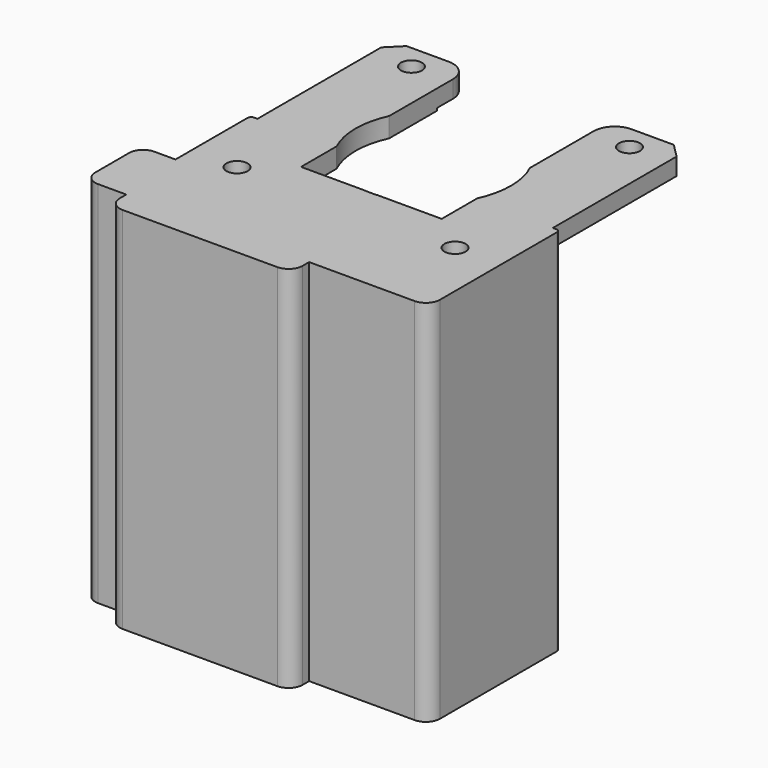
from build123d import *

# Parameters (mm, degrees)
PAD021_DEPTH    = 2.45
PAD022_DEPTH    = 50
SKETCH044_R     = 1.5
POCKET019_DEPTH = 5
SKETCH045_W     = 20
SKETCH045_H     = 52.45
PAD023_DEPTH    = 1
POCKET020_DEPTH = 3
SKETCH047_W     = 26
SKETCH047_H     = 52.45
PAD024_DEPTH    = 6.46
SKETCH048_W     = 17
SKETCH048_H     = 52.45
PAD025_DEPTH    = 3.31
SKETCH049_W     = 1
SKETCH049_H     = 52.45
PAD026_DEPTH    = 3.31
FILLET002_R     = 2
FILLET003_R     = 2
SKETCH050_W     = 10
SKETCH050_H     = 52.45
PAD027_DEPTH    = 5
FILLET004_R     = 2
SKETCH051_R     = 11.04
POCKET021_DEPTH = 5
SKETCH052_R     = 11.04
POCKET022_DEPTH = 5
SKETCH053_R     = 16.5
PAD028_DEPTH    = 0.35
SKETCH054_W     = 20
SKETCH054_H     = 31.6
POCKET023_DEPTH = 5
SKETCH055_R     = 11.04
POCKET024_DEPTH = 5
FILLET005_R     = 3
FILLET006_R     = 0.5


with BuildPart() as part:
    # Sketch041 → Pad021 (new body)
    with BuildSketch(Plane.XY):
        Polygon((-21, 22), (-10, 22), (-10, -8), (10, -8), (10, 22), (21, 22), (21, -22), (-21, -22), align=None)
    extrude(amount=PAD021_DEPTH)

    # Sketch043 (on Face9 of Pad021) → Pad022 (join)
    with BuildSketch(Plane(origin=(0, 0, 0), x_dir=(1, 0, 0), z_dir=(0, 0, -1))):
        Polygon((21, 14), (21, 22), (-21, 22), (-21, 14), (-17, 18), (17, 18), align=None)
    extrude(amount=PAD022_DEPTH)

    # Sketch044 (on Face4 of Pad022) → Pocket019 (cut)
    with BuildSketch(Plane.XY.offset(2.45)):
        with Locations((-15.5, 18.5)):
            Circle(SKETCH044_R)
        with Locations((-15.5, -12.5)):
            Circle(SKETCH044_R)
    pocket019 = extrude(amount=-POCKET019_DEPTH, mode=Mode.SUBTRACT)

    # Mirrored: Pocket019 across Sketch044 V_Axis
    add(pocket019.mirror(Plane(origin=(0, 0, 2.45), x_dir=(0, 0, 1), z_dir=(1, 0, 0))), mode=Mode.SUBTRACT)

    # Sketch045 (on Face13 of Mirrored) → Pad023 (join)
    with BuildSketch(Plane(origin=(-21, 0, 0), x_dir=(0, -1, 0), z_dir=(-1, 0, 0))):
        with Locations((12, -23.775)):
            Rectangle(SKETCH045_W, SKETCH045_H)
    pad023 = extrude(amount=PAD023_DEPTH)

    # Mirrored024: Pad023 across YZ
    add(pad023.mirror(Plane.YZ))

    # Sketch046 (on Face22 of Mirrored024) → Pocket020 (cut)
    with BuildSketch(Plane.XY.offset(2.45)):
        Polygon((-21, 20), (-13.23582, 27.76418), (-21, 27.957458), align=None)
    pocket020 = extrude(amount=-POCKET020_DEPTH, mode=Mode.SUBTRACT)

    # Mirrored025: Pocket020 across Sketch046 V_Axis
    add(pocket020.mirror(Plane(origin=(0, 0, 2.45), x_dir=(0, 0, 1), z_dir=(1, 0, 0))), mode=Mode.SUBTRACT)

    # Sketch047 (on Face13 of Pad022) → Pad024 (join)
    with BuildSketch(Plane.XZ.offset(22)):
        with Locations((-8, -23.775)):
            Rectangle(SKETCH047_W, SKETCH047_H)
    extrude(amount=PAD024_DEPTH)

    # Sketch048 (on Face22 of Pad024) → Pad025 (join)
    with BuildSketch(Plane.XZ.offset(22)):
        with Locations((13.5, -23.775)):
            Rectangle(SKETCH048_W, SKETCH048_H)
    extrude(amount=PAD025_DEPTH)

    # Sketch049 (on Face22 of Pad025) → Pad026 (join)
    with BuildSketch(Plane.XZ.offset(22)):
        with Locations((-21.5, -23.775)):
            Rectangle(SKETCH049_W, SKETCH049_H)
    extrude(amount=PAD026_DEPTH)

    # Fillet002
    fillet002_edges = [part.edges().sort_by_distance(p)[0] for p in [
        (5, -28.46, -23.775),
        (22, -25.31, -23.775),
    ]]
    fillet(fillet002_edges, radius=FILLET002_R)

    # Fillet003
    fillet003_edges = [part.edges().sort_by_distance(p)[0] for p in [
        (-21, -28.46, -23.775),
    ]]
    fillet(fillet003_edges, radius=FILLET003_R)

    # Sketch050 (on Face10 of Fillet003) → Pad027 (join)
    with BuildSketch(Plane(origin=(-22, 0, 0), x_dir=(0, -1, 0), z_dir=(-1, 0, 0))):
        with Locations((20.31, -23.775)):
            Rectangle(SKETCH050_W, SKETCH050_H)
    extrude(amount=PAD027_DEPTH)

    # Fillet004
    fillet004_edges = [part.edges().sort_by_distance(p)[0] for p in [
        (-27, -25.31, -23.775),
        (-27, -15.31, -23.775),
    ]]
    fillet(fillet004_edges, radius=FILLET004_R)

    # Sketch051 (on Face37 of Fillet004) → Pocket021 (cut)
    with BuildSketch(Plane(origin=(0, 0, 0), x_dir=(1, 0, 0), z_dir=(0, 0, -1))):
        with Locations((0, -3)):
            Circle(SKETCH051_R)
    extrude(amount=-POCKET021_DEPTH, mode=Mode.SUBTRACT)

    # Sketch052 (on Face28 of Pad027) → Pocket022 (cut)
    with BuildSketch(Plane(origin=(0, 0, 0), x_dir=(1, 0, 0), z_dir=(0, 0, -1))):
        with Locations((0, -3)):
            Circle(SKETCH052_R)
    extrude(amount=-POCKET022_DEPTH, mode=Mode.SUBTRACT)

    # Sketch053 (on Face42 of Pocket022) → Pad028 (join)
    with BuildSketch(Plane(origin=(0, 0, 0), x_dir=(1, 0, 0), z_dir=(0, 0, -1))):
        with Locations((0, -3)):
            Circle(SKETCH053_R)
    extrude(amount=PAD028_DEPTH)

    # Sketch054 (on Face44 of Pad028) → Pocket023 (cut)
    with BuildSketch(Plane.XY):
        with Locations((0, 7.8)):
            Rectangle(SKETCH054_W, SKETCH054_H)
    extrude(amount=-POCKET023_DEPTH, mode=Mode.SUBTRACT)

    # Sketch055 (on Face5 of Pocket023) → Pocket024 (cut)
    with BuildSketch(Plane.XY.offset(2.45)):
        with Locations((0, 3)):
            Circle(SKETCH055_R)
    extrude(amount=-POCKET024_DEPTH, mode=Mode.SUBTRACT)

    # Fillet005
    fillet005_edges = [part.edges().sort_by_distance(p)[0] for p in [
        (-10, 22, 1.225),
        (10, 22, 1.225),
    ]]
    fillet(fillet005_edges, radius=FILLET005_R)

    # Fillet006
    fillet006_edges = [part.edges().sort_by_distance(p)[0] for p in [
        (22, -2, -23.775),
        (-22, -2, -23.775),
    ]]
    fillet(fillet006_edges, radius=FILLET006_R)


with BuildPart() as part_1:
    # Body006 placement: moved
    add(part.part.moved(Location((0, -3, 10))))


solid = part_1.part
